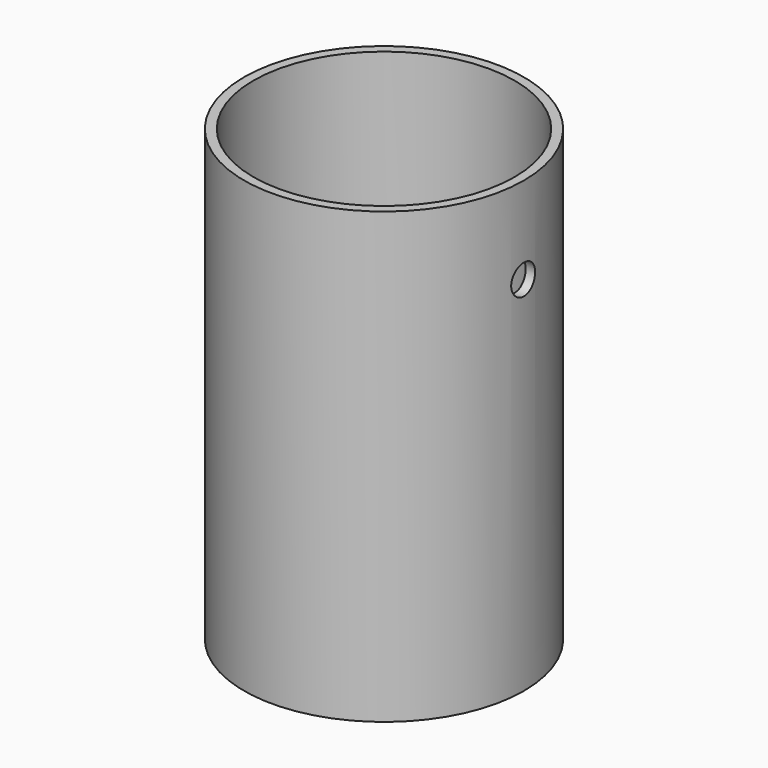
from build123d import *

# Parameters (mm, degrees)
F0_R     = 285.75
F1_DEPTH = 917.575
F2_R     = 266.7
F3_DEPTH = 889
F4_R     = 30.48
F5_DEPTH = 547.83055
F6_R     = 30.48
F7_DEPTH = 651.82147


with BuildPart() as f1:
    # F0 (on Top) → F1 (new body)
    with BuildSketch(Plane.XY):
        Circle(F0_R)
    extrude(amount=F1_DEPTH)

    # F2 (on face) → F3 (cut)
    with BuildSketch(Plane.XY.offset(917.575)):
        Circle(F2_R)
    extrude(amount=-F3_DEPTH, mode=Mode.SUBTRACT)

    # F4 (on Right) → F5 (cut)
    with BuildSketch(Plane.YZ):
        with Locations((0, 739.775)):
            Circle(F4_R)
    extrude(amount=F5_DEPTH, mode=Mode.SUBTRACT)

    # F6 (on Right) → F7 (cut)
    with BuildSketch(Plane.YZ):
        with Locations((81.008007, 76.2)):
            Circle(F6_R)
        with Locations((-96.791993, 76.2)):
            Circle(F6_R)
    extrude(amount=-F7_DEPTH, mode=Mode.SUBTRACT)


solid = f1.part
